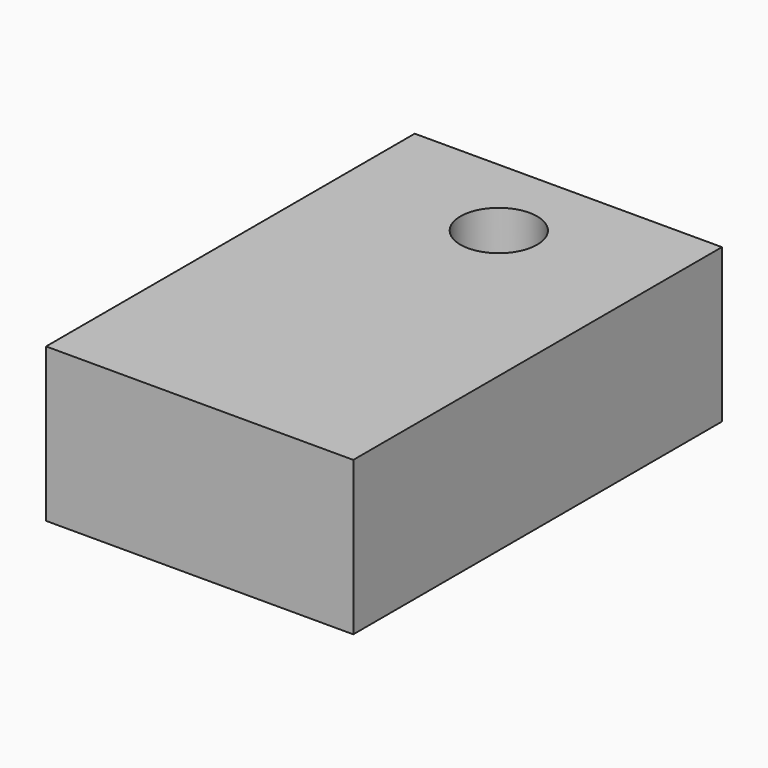
from build123d import *

# Parameters (mm, degrees)
F1_DEPTH = 25.4


with BuildPart() as f1:
    # F0 (on Top) → F1 (new body)
    with BuildSketch(Plane.XY):
        with BuildLine():
            Line((25.4, 23.724828), (25.4, 38.1))
            Line((25.4, 38.1), (-25.4, 38.1))
            Line((-25.4, 38.1), (-25.4, 23.724828))
            Line((-25.4, 23.724828), (-6.35, 23.724828))
            ThreePointArc((-6.35, 23.724828), (0, 30.074828), (6.35, 23.724828))
            Line((6.35, 23.724828), (25.4, 23.724828))
        make_face()
        with BuildLine():
            Line((25.4, -38.1), (25.4, 23.724828))
            Line((25.4, 23.724828), (6.35, 23.724828))
            ThreePointArc((6.35, 23.724828), (0, 17.374828), (-6.35, 23.724828))
            Line((-6.35, 23.724828), (-25.4, 23.724828))
            Line((-25.4, 23.724828), (-25.4, -38.1))
            Line((-25.4, -38.1), (25.4, -38.1))
        make_face()
    extrude(amount=F1_DEPTH)


solid = f1.part
